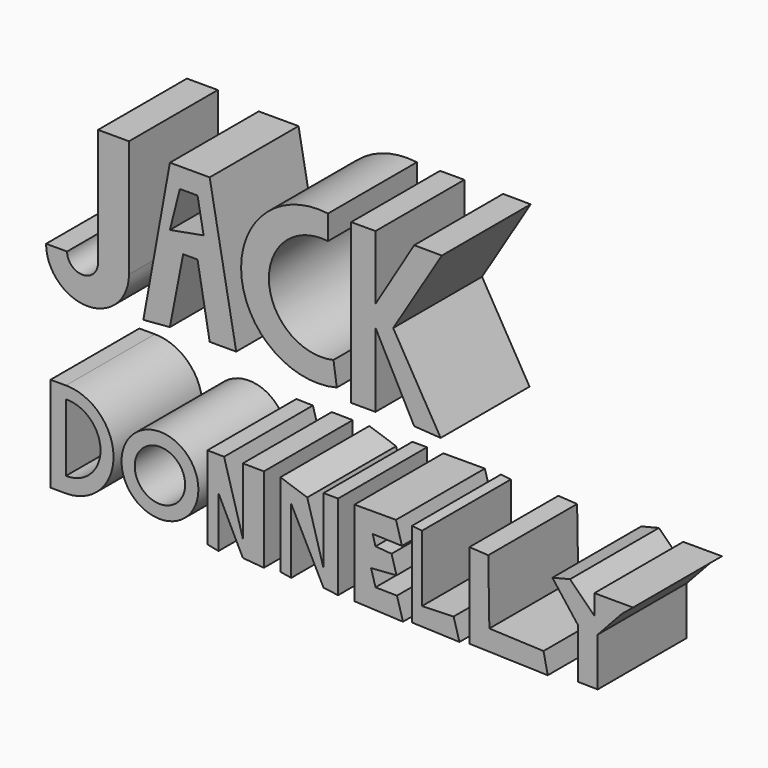
from build123d import *

# Parameters (mm, degrees)
F0_R     = 8.793532
F0_R_2   = 5.76464
F1_DEPTH = 25.4


with BuildPart() as f1:
    # F0 (on Front) → F1 (new body)
    with BuildSketch(Plane.XZ):
        with BuildLine():
            Line((-56.373555, 50.180048), (-63.451849, 50.180048))
            Line((-63.451849, 50.180048), (-63.451849, 23.383651))
            ThreePointArc((-63.451849, 23.383651), (-66.990994, 19.844506), (-70.530139, 23.383651))
            Line((-70.530139, 23.383651), (-75.333267, 23.383651))
            ThreePointArc((-75.333267, 23.383651), (-65.853411, 13.903795), (-56.373555, 23.383651))
            Line((-56.373555, 23.383651), (-56.373555, 50.180048))
        make_face()
        Polygon((-47.020096, 48.916064), (-53.087205, 15.294171), (-47.020096, 15.799763), (-43.98654, 31.47313), (-40.70019, 31.47313), (-37.919432, 15.799763), (-31.852324, 15.799763), (-37.919432, 48.916064), align=None)
        Polygon((-47.020096, 35.369455), (-44.744927, 44.365734), (-40.70019, 44.365734), (-39.310776, 36.781849), align=None, mode=Mode.SUBTRACT)
        with BuildLine():
            Line((-10.870238, 44.871327), (-10.870238, 50.432846))
            ThreePointArc((-10.870238, 50.432846), (-30.705189, 32.016459), (-8.847867, 16.052559))
            Line((-8.847867, 16.052559), (-9.606256, 21.361278))
            ThreePointArc((-9.606256, 21.361278), (-24.3608, 32.357025), (-10.870238, 44.871327))
        make_face()
        Polygon((0, 50.432846), (-5.561516, 50.432846), (-5.561516, 14.030189), (0, 14.030189), (0, 30.967535), (8.847867, 14.030189), (14.905685, 13.634984), (4.04474, 32.231517), (15.167773, 50.432846), (8.848056, 50.467367), (0, 35.770666), align=None)
        with BuildLine():
            Line((-70.782937, -3.665545), (-74.322082, -3.665545))
            Line((-74.322082, -3.665545), (-74.322082, -25.40602))
            Line((-74.322082, -25.40602), (-70.782937, -25.40602))
            ThreePointArc((-70.782937, -25.40602), (-59.9127, -14.535782), (-70.782937, -3.665545))
        make_face()
        with BuildLine():
            Line((-70.782937, -21.866873), (-70.782937, -6.446304))
            ThreePointArc((-70.782937, -6.446304), (-62.887922, -14.156588), (-70.782937, -21.866873))
        make_face(mode=Mode.SUBTRACT)
        with Locations((-49.295262, -14.788578)):
            Circle(F0_R)
        with Locations((-49.295262, -14.788578)):
            Circle(F0_R_2, mode=Mode.SUBTRACT)
        Polygon((-38.425025, -6.193507), (-38.425025, -25.153223), (-35.897061, -25.658816), (-35.897061, -14.030189), (-30.335546, -25.245108), (-25.524989, -25.658816), (-25.524989, -6.243984), (-30.335546, -6.193507), (-30.335546, -21.361278), (-34.629716, -6.263318), align=None)
        Polygon((-15.604697, -8.270536), (-21.740474, -6.193507), (-21.740474, -25.245108), (-19.268581, -25.658816), (-19.268581, -10.743839), (-11.881421, -25.245108), (-8.550997, -25.658816), (-8.550997, -6.193507), (-11.881421, -6.177276), (-11.881421, -21.361278), align=None)
        Polygon((4.683362, -6.177276), (-4.803127, -6.193507), (-4.803127, -25.658816), (6.284225, -26.173963), (4.915398, -21.361278), (0, -21.288068), (-1.006604, -17.74893), (4.803127, -17.316541), (3.672298, -13.340636), (0, -13.040018), (-0.65308, -10.743839), (6.049736, -10.981337), align=None)
        Polygon((10.617441, -6.446304), (8.342275, -6.193507), (8.342275, -25.658816), (19.198496, -26.048902), (17.865239, -21.361278), (10.617441, -21.614075), align=None)
        Polygon((25.785215, -6.446304), (21.487677, -6.193507), (21.487677, -25.658816), (39.391241, -26.183136), (38.425025, -21.614075), (26.038008, -21.108484), align=None)
        Polygon((44.492133, -5.182322), (40.447395, -6.193507), (46.261705, -13.777394), (46.261705, -25.245108), (50.809067, -25.324183), (50.809067, -14.282986), (56.373551, -8.270536), (58.901515, -6.193507), (50.053547, -6.177276), (50.053547, -10.743839), align=None)
    extrude(amount=F1_DEPTH)


solid = f1.part
